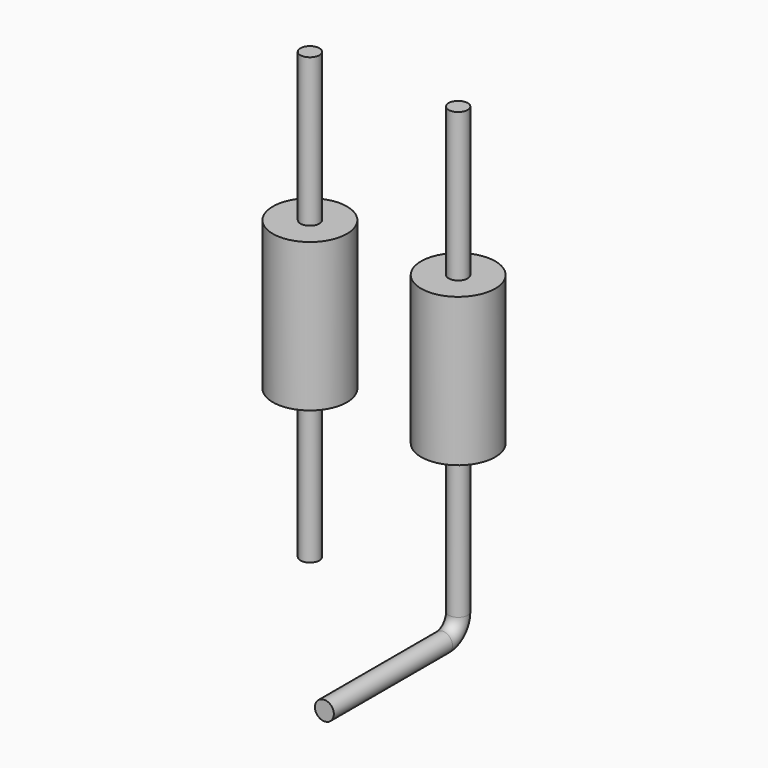
from build123d import *

# Parameters (mm, degrees)
F0_R      = 1.5875
F0_R_2    = 0.4064
F1_DEPTH  = 6.35
F2_DEPTH  = 6.35
F3_DEPTH  = 12.7
F2_FACE_R = 0.4064
F6_ANGLE  = 90
F7_DEPTH  = 6.35


with BuildPart() as f1:
    # F0 (on Top) → F1 (new body)
    with BuildSketch(Plane.XY):
        Circle(F0_R)
        Circle(F0_R_2, mode=Mode.SUBTRACT)
        Circle(F0_R_2)
    extrude(amount=F1_DEPTH)

    # F0 (on Top) → F2 (join)
    with BuildSketch(Plane.XY):
        Circle(F0_R_2)
    extrude(amount=-F2_DEPTH)

    # F0 (on Top) → F3 (join)
    with BuildSketch(Plane.XY):
        Circle(F0_R_2)
    extrude(amount=F3_DEPTH)


with BuildPart() as f4_1:
    # F4: copy of F1
    add(f1.part.moved(Location((-6.35, 0, 0))))


with BuildPart() as f1_1:
    add(f1.part)

    # F2_face (on face) → F6 (revolve)
    with BuildSketch(Plane(origin=(0, 0, -6.35), x_dir=(1, 0, 0), z_dir=(0, 0, -1))):
        Circle(F2_FACE_R)
    revolve(axis=Axis((0, -0.8128, -6.35), (-1, 0, 0)), revolution_arc=F6_ANGLE)

    # F7 (add): a face of the model
    f7_faces = [f1_1.faces().sort_by_distance(p)[0] for p in [
        (0, -0.8128, -7.1628),
    ]]
    extrude(f7_faces, amount=F7_DEPTH)


solid = Compound([f4_1.part, f1_1.part])
